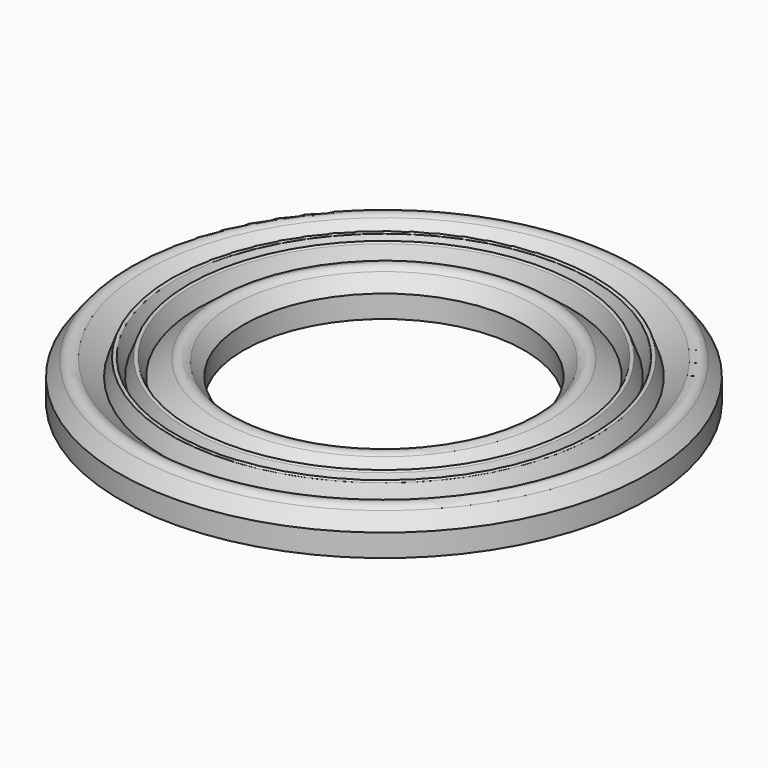
from build123d import *


with BuildPart() as f1:
    # F0 (on Front) → F1 (revolve)
    with BuildSketch(Plane.XZ):
        with BuildLine():
            Line((-47, 0), (-25, 0))
            Line((-25, 0), (-25, 3.982928))
            Line((-25, 3.982928), (-25.021957, 4))
            Line((-25.021957, 4), (-25, 4))
            Line((-25, 4), (-26.90827, 6.454344))
            ThreePointArc((-26.90827, 6.454344), (-28.136784, 7.153221), (-29.499656, 6.778711))
            Line((-29.499656, 6.778711), (-33.024692, 4.037971))
            Line((-33.024692, 4.037971), (-33.054214, 4))
            Line((-33.054214, 4), (-33.073528, 4))
            Line((-33.073528, 4), (-34.178294, 7.034632))
            ThreePointArc((-34.178294, 7.034632), (-34.503445, 7.264412), (-34.832563, 7.040351))
            Line((-34.832563, 7.040351), (-36, 4))
            Line((-36, 4), (-37.167437, 7.040351))
            ThreePointArc((-37.167437, 7.040351), (-37.496555, 7.264412), (-37.821706, 7.034632))
            Line((-37.821706, 7.034632), (-38.926472, 4))
            Line((-38.926472, 4), (-42.500344, 6.778711))
            ThreePointArc((-42.500344, 6.778711), (-43.863216, 7.153221), (-45.09173, 6.454344))
            Line((-45.09173, 6.454344), (-47, 4))
            Line((-47, 4), (-47, 0))
        make_face()
        Polygon((-25.021957, 4), (-25, 3.982928), (-25, 4), align=None)
        Polygon((-33.054214, 4), (-33.024692, 4.037971), (-33.073528, 4), align=None)
    revolve(axis=Axis((0, 0, 2), (0, 0, 1)))


solid = f1.part
